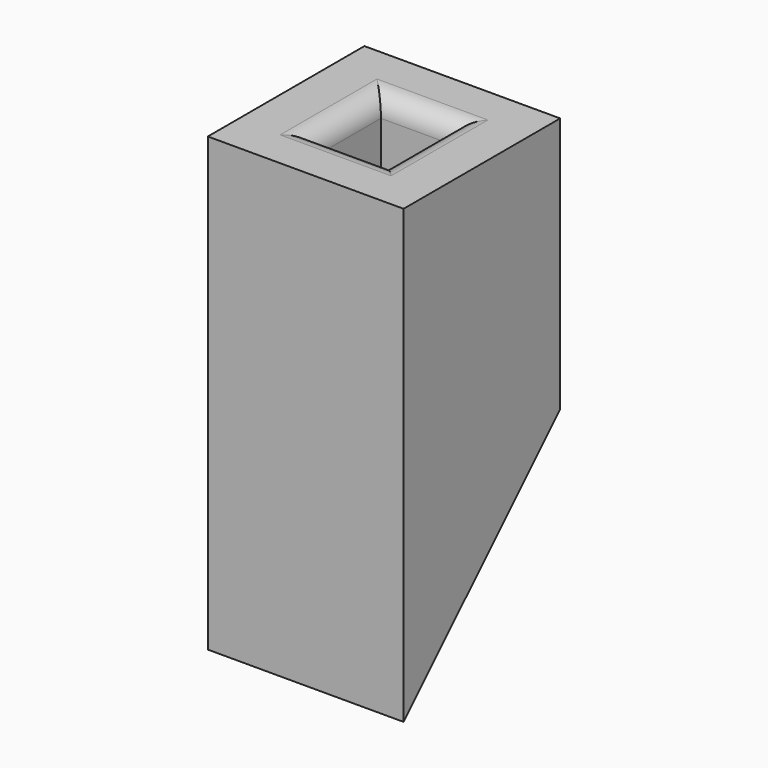
from build123d import *

# Parameters (mm, degrees)
F0_W     = 19.5
F0_H     = 19.5
F0_W_2   = 6.6
F0_H_2   = 7.6
F1_DEPTH = 45
F3_DEPTH = 25
F4_W     = 6.6
F4_H     = 7.6
F5_DEPTH = 50
F5_TAPER = -0.3
F6_R     = 2


with BuildPart() as f1:
    # F0 (on Top) → F1 (new body)
    with BuildSketch(Plane.XY):
        with Locations((-9.75, -9.75)):
            Rectangle(F0_W, F0_H)
        with Locations((-9.75, -9.75)):
            Rectangle(F0_W_2, F0_H_2, mode=Mode.SUBTRACT)
    extrude(amount=F1_DEPTH)

    # F2 (on face) → F3 (cut)
    with BuildSketch(Plane.YZ):
        Polygon((0, 19.5), (-19.5, 0), (0, 0), align=None)
    extrude(amount=-F3_DEPTH, mode=Mode.SUBTRACT)

    # F4 (on Top) → F5 (cut)
    with BuildSketch(Plane.XY):
        with Locations((-9.75, -9.75)):
            Rectangle(F4_W, F4_H)
    extrude(amount=F5_DEPTH, taper=F5_TAPER, mode=Mode.SUBTRACT)

    # F6
    f6_edges = [f1.edges().sort_by_distance(p)[0] for p in [
        (-9.75, -5.714378, 45),
        (-13.285622, -9.75, 45),
        (-6.214378, -9.75, 45),
        (-9.75, -13.785622, 45),
    ]]
    fillet(f6_edges, radius=F6_R)


solid = f1.part
